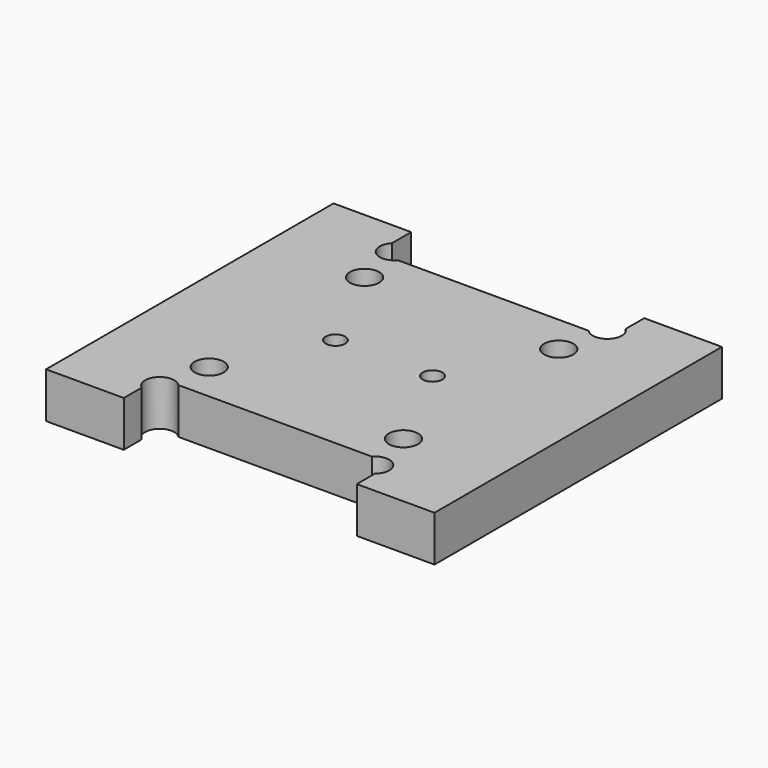
from build123d import *

# Parameters (mm, degrees)
F0_R     = 3
F0_R_2   = 1
F0_R_3   = 1.5
F1_DEPTH = 4.7
F2_DEPTH = 2


with BuildPart() as f1:
    # F0 (on Top) → F1 (new body)
    with BuildSketch(Plane.XY):
        with BuildLine():
            Line((12, -18.5), (20, -18.5))
            Line((20, -18.5), (20, 18.5))
            Line((20, 18.5), (12, 18.5))
            Line((12, 18.5), (12, 16.11414))
            ThreePointArc((12, 16.11414), (12.368599, 15.608754), (12.499026, 14.996978))
            ThreePointArc((12.499026, 14.996978), (11.532367, 13.594999), (9.878297, 14))
            Line((9.878297, 14), (-9.777796, 14))
            ThreePointArc((-9.777796, 14), (-11.922963, 13.865835), (-12, 16.013812))
            Line((-12, 16.013812), (-12, 18.5))
            Line((-12, 18.5), (-20, 18.5))
            Line((-20, 18.5), (-20, -18.5))
            Line((-20, -18.5), (-12, -18.5))
            Line((-12, -18.5), (-12, -16.201558))
            ThreePointArc((-12, -16.201558), (-12.192088, -13.997111), (-9.979289, -14))
            Line((-9.979289, -14), (9.940579, -14))
            ThreePointArc((9.940579, -14), (11.590711, -13.612915), (12.548301, -15.011411))
            ThreePointArc((12.548301, -15.011411), (12.404315, -15.65268), (12, -16.170837))
            Line((12, -16.170837), (12, -18.5))
        make_face()
        with Locations((-10, -10)):
            Circle(F0_R, mode=Mode.SUBTRACT)
        with Locations((10, -10)):
            Circle(F0_R, mode=Mode.SUBTRACT)
        with Locations((-5, 0)):
            Circle(F0_R_2, mode=Mode.SUBTRACT)
        with Locations((-10, 10)):
            Circle(F0_R, mode=Mode.SUBTRACT)
        with Locations((5, 0)):
            Circle(F0_R_2, mode=Mode.SUBTRACT)
        with Locations((10, 10)):
            Circle(F0_R, mode=Mode.SUBTRACT)
        with Locations((10, 10)):
            Circle(F0_R)
        with Locations((10, 10)):
            Circle(F0_R_3, mode=Mode.SUBTRACT)
        with Locations((-10, 10)):
            Circle(F0_R)
        with Locations((-10, 10)):
            Circle(F0_R_3, mode=Mode.SUBTRACT)
        with Locations((-10, -10)):
            Circle(F0_R)
        with Locations((-10, -10)):
            Circle(F0_R_3, mode=Mode.SUBTRACT)
        with Locations((10, -10)):
            Circle(F0_R)
        with Locations((10, -10)):
            Circle(F0_R_3, mode=Mode.SUBTRACT)
    extrude(amount=F1_DEPTH)

    # F0 (on Top) → F2 (cut)
    with BuildSketch(Plane.XY):
        with Locations((10, 10)):
            Circle(F0_R)
        with Locations((10, 10)):
            Circle(F0_R_3, mode=Mode.SUBTRACT)
        with Locations((-10, 10)):
            Circle(F0_R)
        with Locations((-10, 10)):
            Circle(F0_R_3, mode=Mode.SUBTRACT)
        with Locations((10, -10)):
            Circle(F0_R)
        with Locations((10, -10)):
            Circle(F0_R_3, mode=Mode.SUBTRACT)
        with Locations((-10, -10)):
            Circle(F0_R)
        with Locations((-10, -10)):
            Circle(F0_R_3, mode=Mode.SUBTRACT)
    extrude(amount=F2_DEPTH, mode=Mode.SUBTRACT)


solid = f1.part
